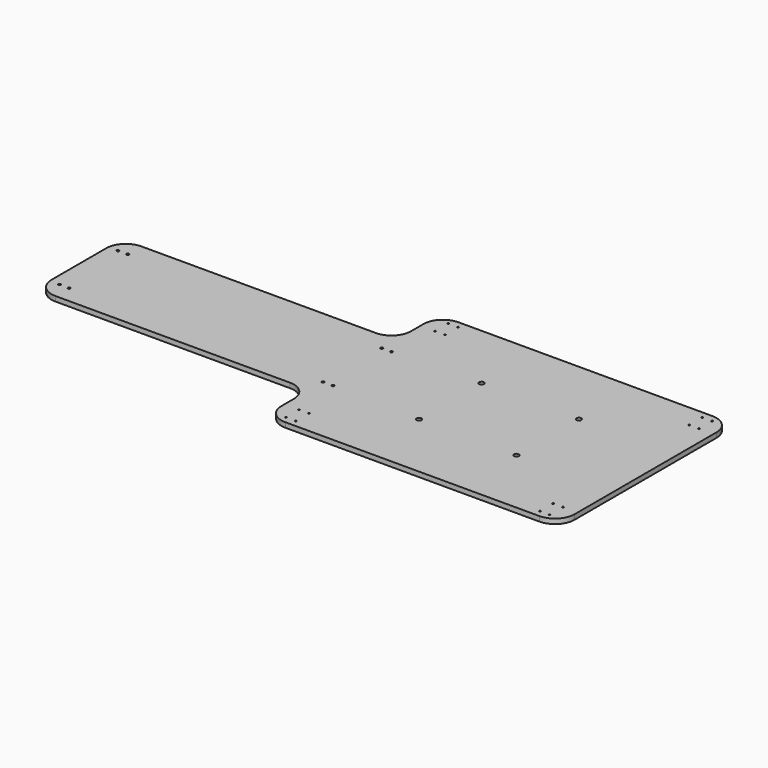
from build123d import *

# Parameters (mm, degrees)
F1_DEPTH = 12.7
F3_D     = 3.96875
F4_D     = 12.7
F5_D     = 6.35


with BuildPart() as f1:
    # F0 (on Top) → F1 (new body)
    with BuildSketch(Plane.XY):
        with BuildLine():
            Line((1473.2, -230.5812), (1473.2, 0))
            Line((1473.2, 0), (1473.2, 230.5812))
            ThreePointArc((1473.2, 230.5812), (1458.321024, 266.502224), (1422.4, 281.3812))
            Line((1422.4, 281.3812), (762, 281.3812))
            ThreePointArc((762, 281.3812), (726.078976, 266.502224), (711.2, 230.5812))
            Line((711.2, 230.5812), (711.2, 190.5))
            ThreePointArc((711.2, 190.5), (696.321024, 154.578976), (660.4, 139.7))
            Line((660.4, 139.7), (50.8, 139.7))
            ThreePointArc((50.8, 139.7), (14.878976, 124.821024), (0, 88.9))
            Line((0, 88.9), (0, 0))
            Line((0, 0), (0, -88.9))
            ThreePointArc((0, -88.9), (14.878976, -124.821024), (50.8, -139.7))
            Line((50.8, -139.7), (660.4, -139.7))
            ThreePointArc((660.4, -139.7), (696.321024, -154.578976), (711.2, -190.5))
            Line((711.2, -190.5), (711.2, -230.5812))
            ThreePointArc((711.2, -230.5812), (726.078976, -266.502224), (762, -281.3812))
            Line((762, -281.3812), (1422.4, -281.3812))
            ThreePointArc((1422.4, -281.3812), (1458.321024, -266.502224), (1473.2, -230.5812))
        make_face()
    extrude(amount=F1_DEPTH)

    # F3 (through all)
    with Locations(Plane.XY.offset(12.7)):
        with Locations((749.3, 263.89965), (774.7, 263.89965), (774.7, 221.03715), (749.3, 221.03715), (749.3, -221.03715), (774.7, -221.03715), (774.7, -263.89965), (749.3, -263.89965), (1409.7, -221.03715), (1435.1, -221.03715), (1435.1, -263.89965), (1409.7, -263.89965), (1435.1, 221.03715), (1409.7, 221.03715), (1409.7, 263.89965), (1435.1, 263.89965)):
            Hole(F3_D / 2)

    # F4 (through all)
    with Locations(Plane.XY.offset(12.7)):
        with Locations((965.680041, 101.6), (1218.719959, 101.6), (1218.719959, -101.6), (965.680041, -101.6)):
            Hole(F4_D / 2)

    # F5 (through all)
    with Locations(Plane.XY.offset(12.7)):
        with Locations((25.4, 95.25), (50.8, 95.25), (50.8, -95.25), (25.4, -95.25), (711.2, 95.25), (736.6, 95.25), (736.6, -95.25), (711.2, -95.25)):
            Hole(F5_D / 2)


solid = f1.part
